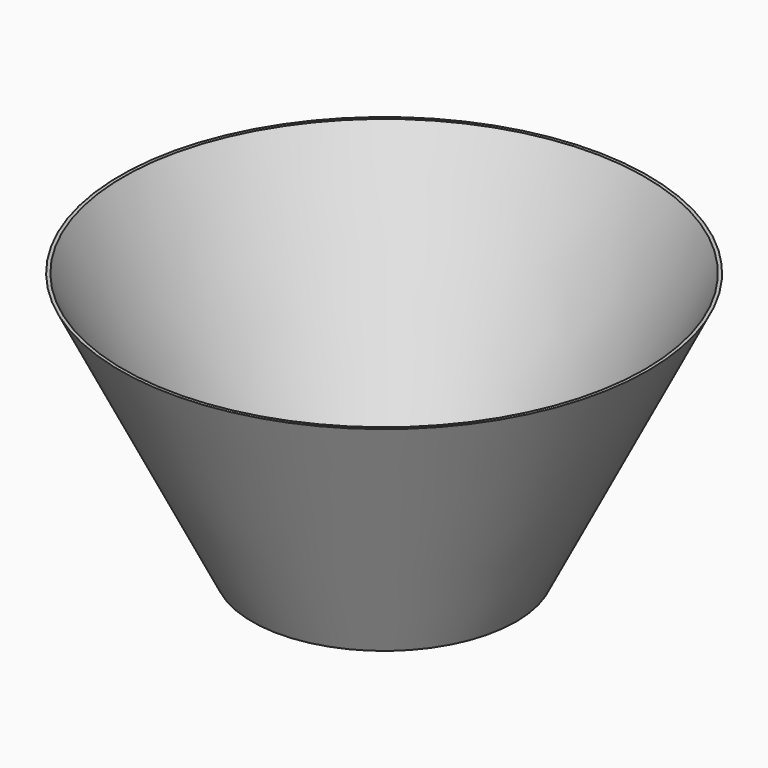
from build123d import *


with BuildPart() as cono001:
    # Cone001 → Cone001 (revolve)
    with BuildSketch(Plane(origin=(0, 0, 2.5), x_dir=(1, 0, 0), z_dir=(0, -1, 0))):
        Polygon((0, 0), (195, 0), (395, 397.5), (0, 397.5), align=None)
    revolve(axis=Axis((0, 0, 2.5), (0, 0, 1)))


with BuildPart() as cut:
    # Cone → Cone (revolve)
    with BuildSketch(Plane.XZ):
        Polygon((0, 0), (200, 0), (400, 400), (0, 400), align=None)
    revolve(axis=Axis((0, 0, 0), (0, 0, 1)))

    # Cut: cut Cono001
    add(cono001.part, mode=Mode.SUBTRACT)


solid = cut.part
